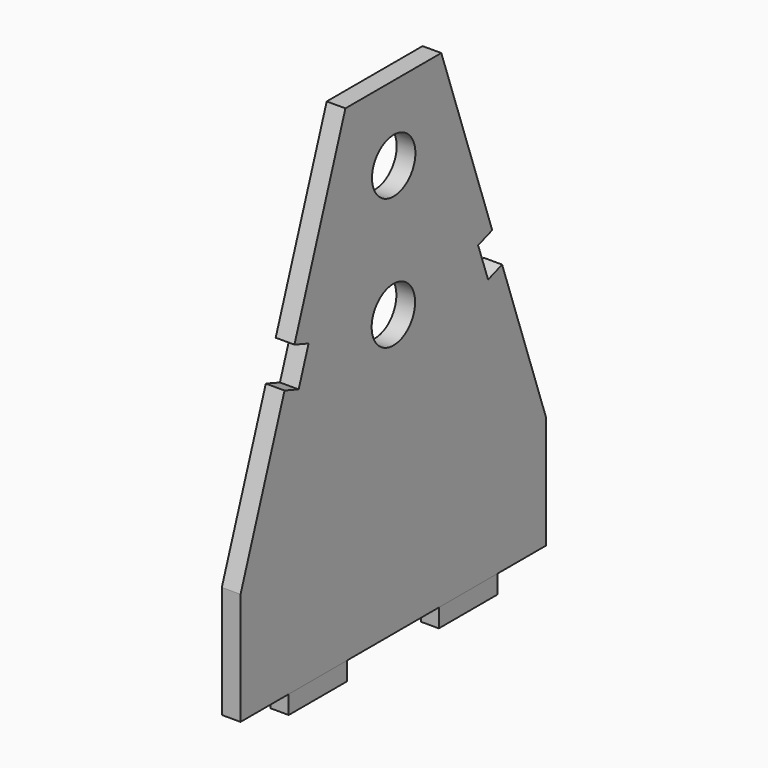
from build123d import *

# Parameters (mm, degrees)
F0_W     = 4.8
F0_H     = 16.2
F0_H_2   = 19.5
F0_H_3   = 30.6
F0_W_2   = 0.1
F1_DEPTH = 130
F2_DEPTH = 5
F3_SIZE2 = 100
F3_SIZE  = 35
F5_D     = 14.5
F6_DEPTH = 25


with BuildPart() as f1:
    # F0 (on Top) → F1 (new body)
    with BuildSketch(Plane.XY):
        with Locations((2.5, -54.3297186732)):
            Rectangle(F0_W, F0_H)
        with Locations((2.5, -36.4797186732)):
            Rectangle(F0_W, F0_H_2)
        with Locations((2.5, -11.4297186732)):
            Rectangle(F0_W, F0_H_3)
        with Locations((2.5, 13.6202813268)):
            Rectangle(F0_W, F0_H_2)
        with Locations((2.5, 31.4702813268)):
            Rectangle(F0_W, F0_H)
        with Locations((4.95, -36.4797186732)):
            Rectangle(F0_W_2, F0_H_2)
        with Locations((4.95, -54.3297186732)):
            Rectangle(F0_W_2, F0_H)
        with Locations((0.05, -54.3297186732)):
            Rectangle(F0_W_2, F0_H)
        with Locations((0.05, -36.4797186732)):
            Rectangle(F0_W_2, F0_H_2)
        with Locations((0.05, -11.4297186732)):
            Rectangle(F0_W_2, F0_H_3)
        with Locations((4.95, -11.4297186732)):
            Rectangle(F0_W_2, F0_H_3)
        with Locations((4.95, 13.6202813268)):
            Rectangle(F0_W_2, F0_H_2)
        with Locations((0.05, 13.6202813268)):
            Rectangle(F0_W_2, F0_H_2)
        with Locations((0.05, 31.4702813268)):
            Rectangle(F0_W_2, F0_H)
        with Locations((4.95, 31.4702813268)):
            Rectangle(F0_W_2, F0_H)
    extrude(amount=F1_DEPTH)

    # F0 (on Top) → F2 (join)
    with BuildSketch(Plane.XY):
        with Locations((2.5, -36.4797186732)):
            Rectangle(F0_W, F0_H_2)
        with Locations((2.5, 13.6202813268)):
            Rectangle(F0_W, F0_H_2)
    extrude(amount=-F2_DEPTH)

    # F3
    f3_edges = [f1.edges().sort_by_distance(p)[0] for p in [
        (2.5, -62.429719, 130),
        (2.5, 39.570281, 130),
    ]]
    f3_side = f1.faces().sort_by_distance((2.5, -11.429719, 130))[0]
    chamfer(f3_edges, length=F3_SIZE, length2=F3_SIZE2, reference=f3_side)

    # F5 (through all)
    with Locations(Plane.YZ.offset(5)):
        with Locations((-11.4297186732, 75), (-11.3186069886, 110)):
            Hole(F5_D / 2)

    # F4 (on face) → F6 (cut)
    with BuildSketch(Plane.YZ.offset(5)):
        Polygon((-43.0340657718, 70.2807082182), (-39.7305615245, 79.7192917818), (-42.0902074154, 80.5451678437), (-44.4498533063, 81.3710439055), (-47.7533575536, 71.9324603418), align=None)
        Polygon((24.8613753703, 72.0254455898), (21.5602896161, 81.4571191733), (19.2142053056, 80.6359896646), (16.8570168201, 79.803125664), (18.5227448214, 75.0887486929), (20.1884728228, 70.3743717218), align=None)
    extrude(amount=-F6_DEPTH, mode=Mode.SUBTRACT)


solid = f1.part
